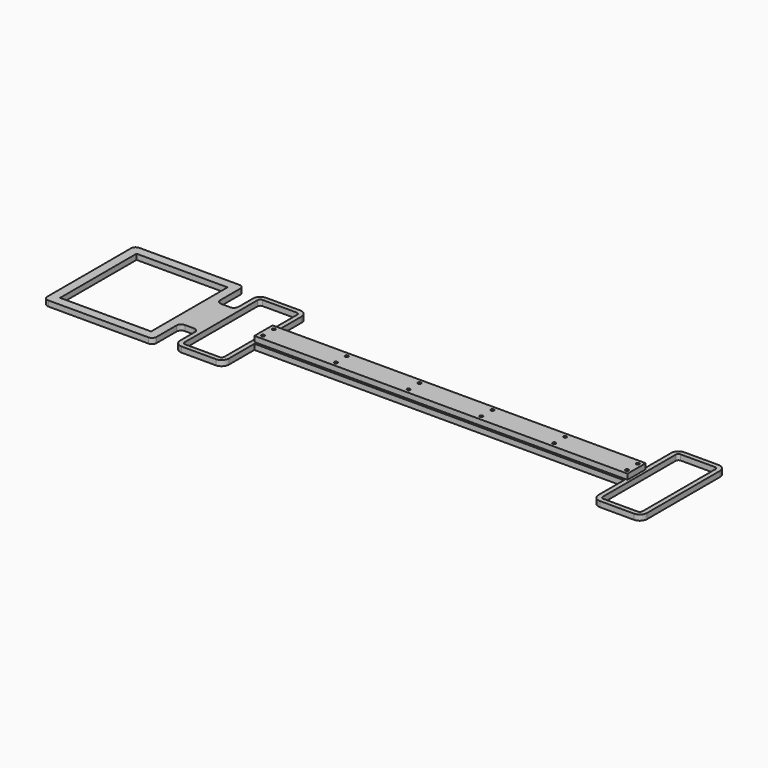
from build123d import *

# Parameters (mm, degrees)
F0_R      = 1.75
F1_DEPTH  = 3
F3_DEPTH  = 6
F7_DEPTH  = 6
F8_R      = 10
F10_DEPTH = 25
F11_R     = 5
F12_W     = 410
F12_H     = 25
F13_DEPTH = 6
F14_R     = 1.75
F15_DEPTH = 7
F16_R     = 1.4
F17_DEPTH = 25
F18_DEPTH = 25
F19_DEPTH = 25
F21_DEPTH = 25
F22_W     = 20
F22_H     = 50
F22_W_2   = 100
F22_H_2   = 105
F23_DEPTH = 6
F24_R     = 5


with BuildPart() as f1:
    # F0 (on Top) → F1 (new body)
    with BuildSketch(Plane.XY):
        with BuildLine():
            ThreePointArc((-18.6875, 52.9903810568), (-20.8088203436, 52.1117014003), (-21.6875, 49.9903810568))
            Line((-21.6875, 49.9903810568), (-21.6875, -49.9903810568))
            ThreePointArc((-21.6875, -49.9903810568), (-20.8088203436, -52.1117014003), (-18.6875, -52.9903810568))
            Line((-18.6875, -52.9903810568), (18.8125, -52.9903810568))
            ThreePointArc((18.8125, -52.9903810568), (20.9338203436, -52.1117014003), (21.8125, -49.9903810568))
            Line((21.8125, -49.9903810568), (21.8125, 49.9903810568))
            ThreePointArc((21.8125, 49.9903810568), (20.9338203436, 52.1117014003), (18.8125, 52.9903810568))
            Line((18.8125, 52.9903810568), (-18.6875, 52.9903810568))
        make_face()
        with Locations((-12.6875, -32.9903810568)):
            Circle(F0_R, mode=Mode.SUBTRACT)
        with Locations((12.3125, -32.9903810568)):
            Circle(F0_R, mode=Mode.SUBTRACT)
        with Locations((-12.6875, 32.9903810568)):
            Circle(F0_R, mode=Mode.SUBTRACT)
        with Locations((12.3125, 32.9903810568)):
            Circle(F0_R, mode=Mode.SUBTRACT)
    extrude(amount=F1_DEPTH)

    # F2 (on Top) → F3 (join)
    with BuildSketch(Plane.XY):
        with BuildLine():
            Line((18.8125, 57.9903810568), (-18.6875, 57.9903810568))
            ThreePointArc((-18.6875, 57.9903810568), (-24.3443542495, 55.6472353063), (-26.6875, 49.9903810568))
            Line((-26.6875, 49.9903810568), (-26.6875, 30))
            Line((-26.6875, 30), (-229.6875, 30))
            Line((-229.6875, 30), (-229.6875, -30))
            Line((-229.6875, -30), (-26.6875, -30))
            Line((-26.6875, -30), (-26.6875, -49.9903810568))
            ThreePointArc((-26.6875, -49.9903810568), (-24.3443542495, -55.6472353063), (-18.6875, -57.9903810568))
            Line((-18.6875, -57.9903810568), (18.8125, -57.9903810568))
            ThreePointArc((18.8125, -57.9903810568), (24.4693542495, -55.6472353063), (26.8125, -49.9903810568))
            Line((26.8125, -49.9903810568), (26.8125, 49.9903810568))
            ThreePointArc((26.8125, 49.9903810568), (24.4693542495, 55.6472353063), (18.8125, 57.9903810568))
        make_face()
        with BuildLine():
            Line((-21.6875, 0), (-21.6875, 49.9903810568))
            ThreePointArc((-21.6875, 49.9903810568), (-20.8088203436, 52.1117014003), (-18.6875, 52.9903810568))
            Line((-18.6875, 52.9903810568), (18.8125, 52.9903810568))
            ThreePointArc((18.8125, 52.9903810568), (20.9338203436, 52.1117014003), (21.8125, 49.9903810568))
            Line((21.8125, 49.9903810568), (21.8125, -49.9903810568))
            ThreePointArc((21.8125, -49.9903810568), (20.9338203436, -52.1117014003), (18.8125, -52.9903810568))
            Line((18.8125, -52.9903810568), (-18.6875, -52.9903810568))
            ThreePointArc((-18.6875, -52.9903810568), (-20.8088203436, -52.1117014003), (-21.6875, -49.9903810568))
            Line((-21.6875, -49.9903810568), (-21.6875, 0))
        make_face(mode=Mode.SUBTRACT)
    extrude(amount=F3_DEPTH)

    # F5: F1 across plane


with BuildPart() as f1_1:
    add(f1.part)
    add(f1.part.mirror(Plane(origin=(-229.6875, 0, 3), x_dir=(0, -1, 0), z_dir=(-1, 0, 0))))

    # F6 (on face) → F7 (join, through all)
    with BuildSketch(Plane.XY.offset(6)):
        Polygon((-289.6875, 30), (-229.6875, 30), (-169.6875, 30), (-169.6875, 57.9903810568), (-289.6875, 57.9903810568), align=None)
    extrude(amount=-F7_DEPTH)

    # F8
    f8_edges = [f1_1.edges().sort_by_distance(p)[0] for p in [
        (-169.6875, 57.990381, 3),
        (-169.6875, 30, 3),
        (-289.6875, 57.990381, 3),
        (-289.6875, 30, 3),
    ]]
    fillet(f8_edges, radius=F8_R)

    # F9 (on face) → F10 (cut)
    with BuildSketch(Plane.XY.offset(6)):
        with BuildLine():
            ThreePointArc((-279.6875, 27.9903810568), (-278.2230339059, 24.4548471508), (-274.6875, 22.9903810568))
            Line((-274.6875, 22.9903810568), (-184.6875, 22.9903810568))
            ThreePointArc((-184.6875, 22.9903810568), (-181.1519660941, 24.4548471508), (-179.6875, 27.9903810568))
            Line((-179.6875, 27.9903810568), (-179.6875, 42.9903810568))
            ThreePointArc((-179.6875, 42.9903810568), (-181.1519660941, 46.5259149627), (-184.6875, 47.9903810568))
            Line((-184.6875, 47.9903810568), (-274.6875, 47.9903810568))
            ThreePointArc((-274.6875, 47.9903810568), (-278.2230339059, 46.5259149627), (-279.6875, 42.9903810568))
            Line((-279.6875, 42.9903810568), (-279.6875, 27.9903810568))
        make_face()
    extrude(amount=-F10_DEPTH, mode=Mode.SUBTRACT)

    # F11
    f11_edges = [f1_1.edges().sort_by_distance(p)[0] for p in [
        (-432.6875, 30, 3),
        (-432.6875, -30, 3),
        (-26.6875, -30, 3),
        (-26.6875, 30, 3),
    ]]
    fillet(f11_edges, radius=F11_R)


with BuildPart() as f13:
    # F12 (on face) → F13 (new body)
    with BuildSketch(Plane.XY.offset(6)):
        with Locations((-229.6875, 0)):
            Rectangle(F12_W, F12_H)
    extrude(amount=F13_DEPTH)


with BuildPart() as f15_tool:
    # F14 (on face) → F15 (new body)
    with BuildSketch(Plane.XY.offset(12)):
        with Locations((-429.2296588421, 7.5)):
            Circle(F14_R)
        with Locations((-429.2296588421, -7.5)):
            Circle(F14_R)
        with Locations((-349.2296588421, -7.5)):
            Circle(F14_R)
        with Locations((-349.2296588421, 7.5)):
            Circle(F14_R)
        with Locations((-269.2296588421, 7.5)):
            Circle(F14_R)
        with Locations((-269.2296588421, -7.5)):
            Circle(F14_R)
        with Locations((-189.2296588421, -7.5)):
            Circle(F14_R)
        with Locations((-189.2296588421, 7.5)):
            Circle(F14_R)
        with Locations((-109.2296588421, -7.5)):
            Circle(F14_R)
        with Locations((-109.2296588421, 7.5)):
            Circle(F14_R)
        with Locations((-29.2296588421, -7.5)):
            Circle(F14_R)
        with Locations((-29.2296588421, 7.5)):
            Circle(F14_R)
    extrude(amount=-F15_DEPTH)


with BuildPart() as f1_2:
    add(f1_1.part)

    # F15: cut by f15_tool
    add(f15_tool.part, mode=Mode.SUBTRACT)

    # F16 (on face) → F17 (cut)
    with BuildSketch(Plane.XY.offset(6)):
        with Locations((-429.2296588421, 7.5)):
            Circle(F16_R)
        with Locations((-349.2296588421, 7.5)):
            Circle(F16_R)
        with Locations((-269.2296588421, 7.5)):
            Circle(F16_R)
        with Locations((-189.2296588421, 7.5)):
            Circle(F16_R)
        with Locations((-109.2296588421, 7.5)):
            Circle(F16_R)
        with Locations((-29.2296588421, 7.5)):
            Circle(F16_R)
        with Locations((-429.2296588421, -7.5)):
            Circle(F16_R)
        with Locations((-349.2296588421, -7.5)):
            Circle(F16_R)
        with Locations((-269.2296588421, -7.5)):
            Circle(F16_R)
        with Locations((-189.2296588421, -7.5)):
            Circle(F16_R)
        with Locations((-109.2296588421, -7.5)):
            Circle(F16_R)
        with Locations((-29.2296588421, -7.5)):
            Circle(F16_R)
    extrude(amount=-F17_DEPTH, mode=Mode.SUBTRACT)

    # F18 (cut): a face of the model
    f18_faces = [f1_2.faces().sort_by_distance(p)[0] for p in [
        (-459.4396080689, 0, 3),
    ]]
    extrude(f18_faces, amount=-F18_DEPTH, mode=Mode.SUBTRACT)

    # F19 (cut): a face of the model
    f19_faces = [f1_2.faces().sort_by_distance(p)[0] for p in [
        (0.0646080689, 0, 3),
    ]]
    extrude(f19_faces, amount=-F19_DEPTH, mode=Mode.SUBTRACT)

    # F20 (on face) → F21 (cut)
    with BuildSketch(Plane.XY.offset(6)):
        with BuildLine():
            ThreePointArc((-427.6875, 30), (-431.2230339059, 31.4644660941), (-432.6875, 35))
            Line((-432.6875, 35), (-432.6875, 15))
            Line((-432.6875, 15), (-26.6875, 15))
            Line((-26.6875, 15), (-26.6875, 35))
            ThreePointArc((-26.6875, 35), (-28.1519660941, 31.4644660941), (-31.6875, 30))
            Line((-31.6875, 30), (-159.6875, 30))
            ThreePointArc((-159.6875, 30), (-166.7585678119, 32.9289321881), (-169.6875, 40))
            Line((-169.6875, 40), (-169.6875, 47.9903810568))
            ThreePointArc((-169.6875, 47.9903810568), (-172.6164321881, 55.0614488686), (-179.6875, 57.9903810568))
            Line((-179.6875, 57.9903810568), (-279.6875, 57.9903810568))
            ThreePointArc((-279.6875, 57.9903810568), (-286.7585678119, 55.0614488686), (-289.6875, 47.9903810568))
            Line((-289.6875, 47.9903810568), (-289.6875, 40))
            ThreePointArc((-289.6875, 40), (-292.6164321881, 32.9289321881), (-299.6875, 30))
            Line((-299.6875, 30), (-427.6875, 30))
        make_face()
        with BuildLine():
            Line((-279.6875, 27.9903810568), (-279.6875, 42.9903810568))
            ThreePointArc((-279.6875, 42.9903810568), (-278.2230339059, 46.5259149627), (-274.6875, 47.9903810568))
            Line((-274.6875, 47.9903810568), (-184.6875, 47.9903810568))
            ThreePointArc((-184.6875, 47.9903810568), (-181.1519660941, 46.5259149627), (-179.6875, 42.9903810568))
            Line((-179.6875, 42.9903810568), (-179.6875, 27.9903810568))
            ThreePointArc((-179.6875, 27.9903810568), (-181.1519660941, 24.4548471508), (-184.6875, 22.9903810568))
            Line((-184.6875, 22.9903810568), (-274.6875, 22.9903810568))
            ThreePointArc((-274.6875, 22.9903810568), (-278.2230339059, 24.4548471508), (-279.6875, 27.9903810568))
        make_face(mode=Mode.SUBTRACT)
        with BuildLine():
            Line((-303.7117123604, 72.7798044682), (-432.6875, 35))
            ThreePointArc((-432.6875, 35), (-431.2230339059, 31.4644660941), (-427.6875, 30))
            Line((-427.6875, 30), (-299.6875, 30))
            ThreePointArc((-299.6875, 30), (-292.6164321881, 32.9289321881), (-289.6875, 40))
            Line((-289.6875, 40), (-289.6875, 47.9903810568))
            ThreePointArc((-289.6875, 47.9903810568), (-286.7585678119, 55.0614488686), (-279.6875, 57.9903810568))
            Line((-279.6875, 57.9903810568), (-179.6875, 57.9903810568))
            ThreePointArc((-179.6875, 57.9903810568), (-172.6164321881, 55.0614488686), (-169.6875, 47.9903810568))
            Line((-169.6875, 47.9903810568), (-169.6875, 40))
            ThreePointArc((-169.6875, 40), (-166.7585678119, 32.9289321881), (-159.6875, 30))
            Line((-159.6875, 30), (-31.6875, 30))
            ThreePointArc((-31.6875, 30), (-28.1519660941, 31.4644660941), (-26.6875, 35))
            Line((-26.6875, 35), (-151.1436700821, 72.7798044682))
            Line((-151.1436700821, 72.7798044682), (-303.7117123604, 72.7798044682))
        make_face()
        with BuildLine():
            Line((-26.6875, -15), (-432.6875, -15))
            Line((-432.6875, -15), (-432.6875, -35))
            ThreePointArc((-432.6875, -35), (-431.2230339059, -31.4644660941), (-427.6875, -30))
            Line((-427.6875, -30), (-31.6875, -30))
            ThreePointArc((-31.6875, -30), (-28.1519660941, -31.4644660941), (-26.6875, -35))
            Line((-26.6875, -35), (-26.6875, -15))
        make_face()
        with BuildLine():
            ThreePointArc((-427.6875, -30), (-431.2230339059, -31.4644660941), (-432.6875, -35))
            Line((-432.6875, -35), (-388.8910412788, -53.9109669626))
            Line((-388.8910412788, -53.9109669626), (-192.6551163197, -53.9109669626))
            Line((-192.6551163197, -53.9109669626), (-26.6875, -35))
            ThreePointArc((-26.6875, -35), (-28.1519660941, -31.4644660941), (-31.6875, -30))
            Line((-31.6875, -30), (-427.6875, -30))
        make_face()
    extrude(amount=-F21_DEPTH, mode=Mode.SUBTRACT)

    # F22 (on face) → F23 (join, through all)
    with BuildSketch(Plane.XY.offset(6)):
        with Locations((-496.1875, 0)):
            Rectangle(F22_W, F22_H)
        Polygon((-506.1875, 62.5), (-626.1875, 62.5), (-626.1875, -62.5), (-506.1875, -62.5), (-506.1875, -25), (-506.1875, 25), align=None)
        with Locations((-566.1875, 0)):
            Rectangle(F22_W_2, F22_H_2, mode=Mode.SUBTRACT)
    extrude(amount=-F23_DEPTH)

    # F24
    f24_edges = [f1_2.edges().sort_by_distance(p)[0] for p in [
        (-626.1875, 62.5, 3),
        (-506.1875, 62.5, 3),
        (-486.1875, 25, 3),
        (-506.1875, 25, 3),
        (-486.1875, -25, 3),
        (-506.1875, -25, 3),
        (-506.1875, -62.5, 3),
        (-626.1875, -62.5, 3),
    ]]
    fillet(f24_edges, radius=F24_R)


with BuildPart() as f13_1:
    add(f13.part)

    # F15: cut by f15_tool
    add(f15_tool.part, mode=Mode.SUBTRACT)


solid = Compound([f1_2.part, f13_1.part])
